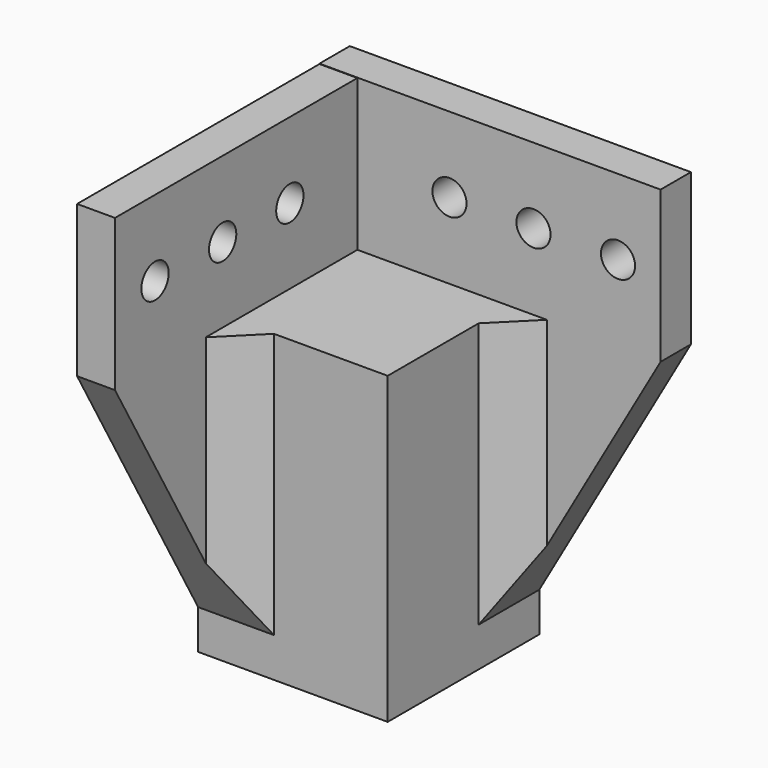
from build123d import *

# Parameters (mm, degrees)
F0_R          = 2.25
F1_DEPTH      = 5
F2_R          = 2.25
F3_DEPTH      = 5
F4_W          = 5
F4_H          = 55
F5_DEPTH      = 5
F6_W          = 25
F6_H          = 25
F7_DEPTH      = 5.195
F7_DEPTH_BACK = 35
F8_SIZE       = 5


with BuildPart() as f1:
    # F0 (on Front) → F1 (new body)
    with BuildSketch(Plane.XZ):
        Polygon((-20.774203624, 44.7394914553), (-60.774203624, 44.7394914553), (-60.774203624, 24.7394914553), (-60.774203624, -10.2605085447), (-40.774203624, -10.2605085447), (-20.774203624, 24.7394914553), align=None)
        with Locations((-48.619884952, 34.7818620503)):
            Circle(F0_R, mode=Mode.SUBTRACT)
        with Locations((-37.538797351, 34.7818620503)):
            Circle(F0_R, mode=Mode.SUBTRACT)
        with Locations((-26.3895275705, 34.7818620503)):
            Circle(F0_R, mode=Mode.SUBTRACT)
    extrude(amount=F1_DEPTH)



with BuildPart() as f3:
    # F2 (on face) → F3 (new body)
    with BuildSketch(Plane(origin=(-60.774203624, 0, 0), x_dir=(0, -1, 0), z_dir=(-1, 0, 0))):
        Polygon((44.9674582002, 44.6888683979), (5, 44.6888683979), (5, -10.2605085447), (4.9674582002, -10.2605085447), (4.9674582002, -10.3111316021), (24.9674582002, -10.3111316021), (44.9674582002, 24.6888683979), align=None)
        with Locations((16.1363705993, 34.6888683979)):
            Circle(F2_R, mode=Mode.SUBTRACT)
        with Locations((27.2174582002, 34.6888683979)):
            Circle(F2_R, mode=Mode.SUBTRACT)
        with Locations((38.3667279808, 34.6888683979)):
            Circle(F2_R, mode=Mode.SUBTRACT)
    extrude(amount=F3_DEPTH)


with BuildPart() as f1_1:
    add(f1.part)

    add(f3.part)  # F5 merges F3
    # F4 (on face) → F5 (join)
    with BuildSketch(Plane(origin=(-60.774203624, 0, 0), x_dir=(0, -1, 0), z_dir=(-1, 0, 0))):
        with Locations((2.5, 17.2394914553)):
            Rectangle(F4_W, F4_H)
    extrude(amount=F5_DEPTH)

    # F6 (on face) → F7 (join, two sides)
    with BuildSketch(Plane(origin=(0, 0, -10.2605085447), x_dir=(1, 0, 0), z_dir=(0, 0, -1))) as f7_sk:
        with Locations((-53.274203624, 12.5)):
            Rectangle(F6_W, F6_H)
    extrude(amount=F7_DEPTH)
    extrude(f7_sk.sketch, amount=-F7_DEPTH_BACK)

    # F8
    f8_edges = [f1_1.edges().sort_by_distance(p)[0] for p in [
        (-60.774204, -25, 7.242654),
        (-40.774204, -5, 7.239491),
    ]]
    chamfer(f8_edges, length=F8_SIZE)


solid = f1_1.part
